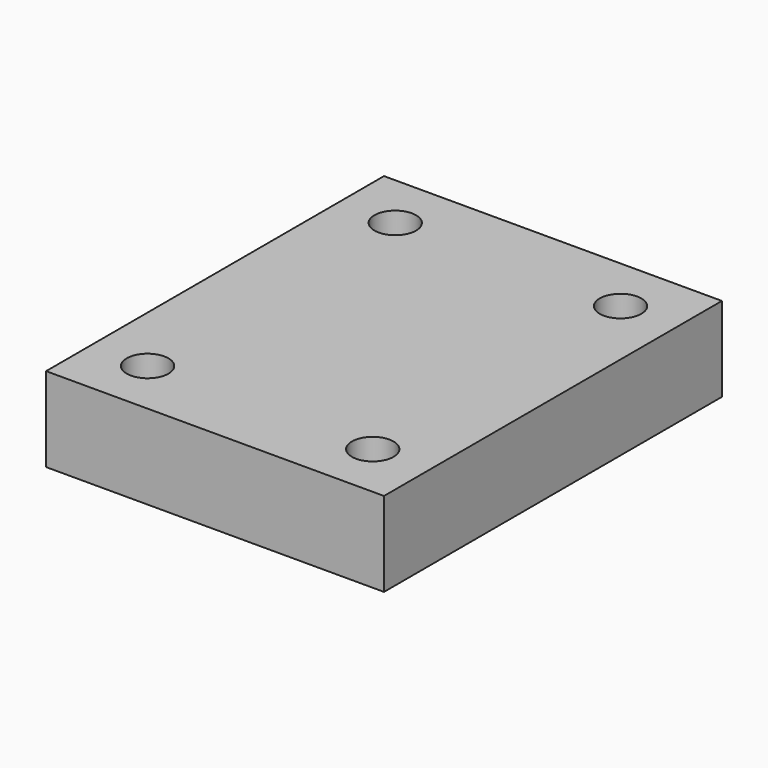
from build123d import *

# Parameters (mm, degrees)
F0_W     = 95.25
F0_H     = 19.05
F1_DEPTH = 76.2
F2_R     = 4.699
F3_DEPTH = 25.4


with BuildPart() as f1:
    # F0 (on Right) → F1 (new body)
    with BuildSketch(Plane.YZ):
        with Locations((7.742904, -3.723968)):
            Rectangle(F0_W, F0_H)
    extrude(amount=F1_DEPTH)

    # F2 (on face) → F3 (cut)
    with BuildSketch(Plane.XY.offset(5.801032)):
        with Locations((63.5, -27.182096)):
            Circle(F2_R)
        with Locations((12.732774, -27.182096)):
            Circle(F2_R)
        with Locations((12.7, 42.667904)):
            Circle(F2_R)
        with Locations((63.5, 42.667904)):
            Circle(F2_R)
    extrude(amount=-F3_DEPTH, mode=Mode.SUBTRACT)


solid = f1.part
